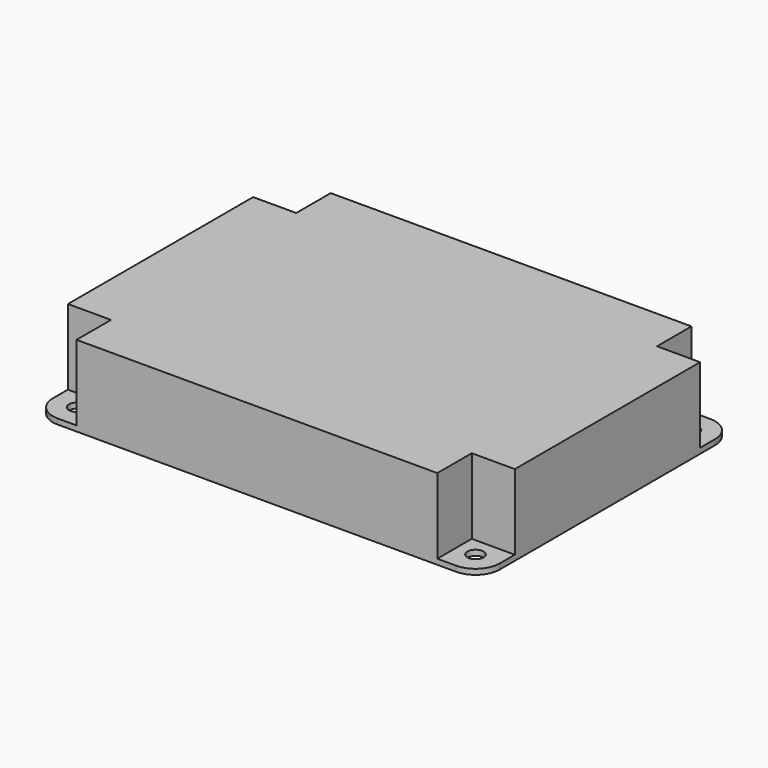
from build123d import *

# Parameters (mm, degrees)
F0_W     = 83
F0_H     = 59
F1_DEPTH = 7.5
F2_R     = 1.5
F3_DEPTH = 15.001
F4_R     = 4.5
F5_W     = 8
F5_H     = 8
F6_DEPTH = 14


with BuildPart() as f1:
    # F0 (on Top) → F1 (new body, symmetric)
    with BuildSketch(Plane.XY):
        Rectangle(F0_W, F0_H)
    extrude(amount=F1_DEPTH, both=True)

    # F2 (on face) → F3 (cut, through all)
    with BuildSketch(Plane.XY.offset(7.5)):
        with Locations((-37, 25)):
            Circle(F2_R)
        with Locations((37, 25)):
            Circle(F2_R)
        with Locations((-37, -25)):
            Circle(F2_R)
        with Locations((37, -25)):
            Circle(F2_R)
    extrude(amount=-F3_DEPTH, mode=Mode.SUBTRACT)

    # F4
    f4_edges = [f1.edges().sort_by_distance(p)[0] for p in [
        (-41.5, 29.5, 0),
        (-41.5, -29.5, 0),
        (41.5, -29.5, 0),
        (41.5, 29.5, 0),
    ]]
    fillet(f4_edges, radius=F4_R)

    # F5 (on face) → F6 (cut)
    with BuildSketch(Plane.XY.offset(7.5)):
        with Locations((-37.5, 25.5)):
            Rectangle(F5_W, F5_H)
        with Locations((37.5, 25.5)):
            Rectangle(F5_W, F5_H)
        with Locations((-37.5, -25.5)):
            Rectangle(F5_W, F5_H)
        with Locations((37.5, -25.5)):
            Rectangle(F5_W, F5_H)
    extrude(amount=-F6_DEPTH, mode=Mode.SUBTRACT)


solid = f1.part
